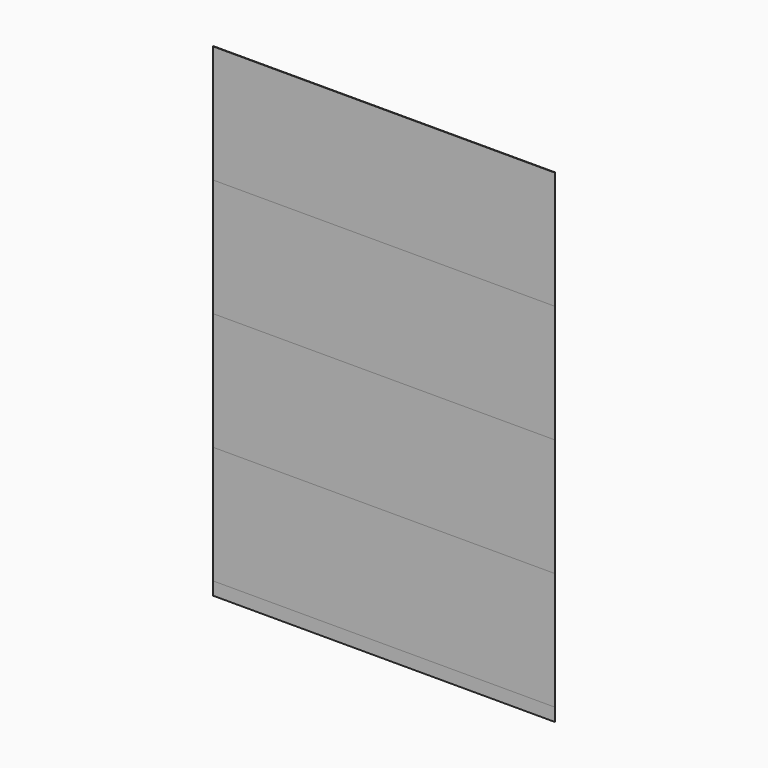
from build123d import *

# Parameters (mm, degrees)
F0_W     = 210
F0_H     = 297
F1_DEPTH = 0.3
F2_W     = 210
F2_H     = 72.25
F3_DEPTH = 0.3
F4_DEPTH = 0.3
F5_DEPTH = 0.3
F6_DEPTH = 0.3


with BuildPart() as f1:
    # F0 (on Front) → F1 (new body)
    with BuildSketch(Plane.XZ):
        with Locations((105, -148.5)):
            Rectangle(F0_W, F0_H)
    extrude(amount=F1_DEPTH)


with BuildPart() as f3:
    # F2 (on face) → F3 (new body)
    with BuildSketch(Plane(origin=(0, 0, 0), x_dir=(-1, 0, 0), z_dir=(0, 1, 0))):
        with Locations((-105, -36.125)):
            Rectangle(F2_W, F2_H)
    extrude(amount=-F3_DEPTH)


with BuildPart() as f4:
    # F2 (on face) → F4 (new body)
    with BuildSketch(Plane(origin=(0, 0, 0), x_dir=(-1, 0, 0), z_dir=(0, 1, 0))):
        with Locations((-105, -108.375)):
            Rectangle(F2_W, F2_H)
    extrude(amount=-F4_DEPTH)


with BuildPart() as f5:
    # F2 (on face) → F5 (new body)
    with BuildSketch(Plane(origin=(0, 0, 0), x_dir=(-1, 0, 0), z_dir=(0, 1, 0))):
        with Locations((-105, -180.625)):
            Rectangle(F2_W, F2_H)
    extrude(amount=-F5_DEPTH)


with BuildPart() as f6:
    # F2 (on face) → F6 (new body)
    with BuildSketch(Plane(origin=(0, 0, 0), x_dir=(-1, 0, 0), z_dir=(0, 1, 0))):
        with Locations((-105, -252.875)):
            Rectangle(F2_W, F2_H)
    extrude(amount=-F6_DEPTH)


solid = Compound([f1.part, f3.part, f4.part, f5.part, f6.part])
